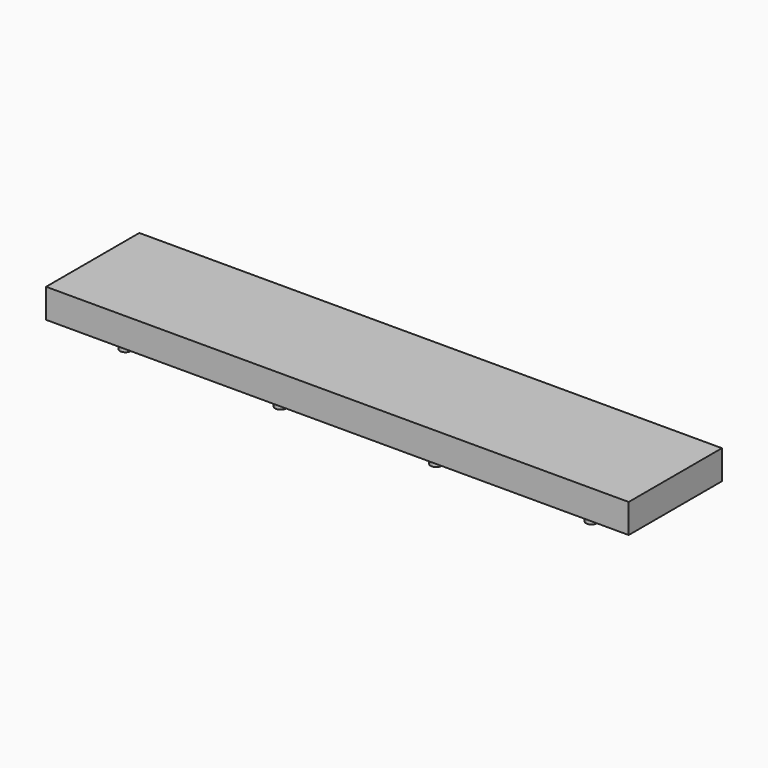
from build123d import *

# Parameters (mm, degrees)
SKETCH058_W             = 3.4
SKETCH058_H             = 3.2
PAD052_DEPTH            = 1.4
CHAMFER024_SIZE         = 1
SKETCH059_W             = 3.4
SKETCH059_H             = 3.2
PAD053_DEPTH            = 1.4
CHAMFER022_SIZE         = 1
SKETCH060_W             = 3.4
SKETCH060_H             = 3.2
PAD054_DEPTH            = 1.4
CHAMFER031_SIZE         = 1
SKETCH061_W             = 3.4
SKETCH061_H             = 3.2
PAD055_DEPTH            = 1.4
CHAMFER032_SIZE         = 1
SKETCH063_W             = 3.4
SKETCH063_H             = 3.2
PAD056_DEPTH            = 1.4
CHAMFER025_SIZE         = 1
SKETCH064_W             = 3.4
SKETCH064_H             = 3.2
PAD057_DEPTH            = 1.4
CHAMFER030_SIZE         = 1
SKETCH065_W             = 3.4
SKETCH065_H             = 3.2
PAD058_DEPTH            = 1.4
CHAMFER026_SIZE         = 1
SKETCH062_W             = 3.4
SKETCH062_H             = 3.2
PAD059_DEPTH            = 1.4
CHAMFER028_SIZE         = 1
SKETCH082_W             = 3.2
SKETCH082_H             = 3.15
PAD075_DEPTH            = 1.2
CHAMFER027_SIZE         = 1
SKETCH083_W             = 2.017963
SKETCH083_H             = 1.017
SKETCH083_W_2           = 1.827715
SKETCH083_H_2           = 1.155216
POCKET007_DEPTH         = 5
SKETCH084_W             = 3.2
SKETCH084_H             = 3.2
PAD076_DEPTH            = 1.2
CHAMFER029_SIZE         = 0.5
SKETCH085_W             = 1.850896
SKETCH085_H             = 1.017
SKETCH085_W_2           = 1.709498
SKETCH085_H_2           = 1.155216
POCKET008_DEPTH         = 5
BODY075_PLACEMENT_ANGLE = 180
SKETCH086_W             = 2.4
SKETCH086_H             = 1.55
PAD077_DEPTH            = 1.35
BODY076_PLACEMENT_ANGLE = 90
SKETCH087_W             = 2.4
SKETCH087_H             = 1.55
PAD078_DEPTH            = 1.35
BODY077_PLACEMENT_ANGLE = 90
SKETCH088_W             = 3.2
SKETCH088_H             = 3.2
PAD079_DEPTH            = 1.4
CHAMFER033_SIZE         = 1
SKETCH089_W             = 2.017963
SKETCH089_H             = 1.017
POCKET009_DEPTH         = 5
BODY078_PLACEMENT_ANGLE = 180
SKETCH090_W             = 2.4
SKETCH090_H             = 1.55
PAD080_DEPTH            = 1.35
BODY079_PLACEMENT_ANGLE = 90
SKETCH091_W             = 2.15
SKETCH091_H             = 1.45
PAD081_DEPTH            = 1
BODY080_PLACEMENT_ANGLE = 90
SKETCH092_W             = 2.15
SKETCH092_H             = 1.45
PAD082_DEPTH            = 1
BODY081_PLACEMENT_ANGLE = 90
SKETCH093_W             = 2.1
SKETCH093_H             = 1.45
PAD083_DEPTH            = 0.6
BODY082_PLACEMENT_ANGLE = 90
SKETCH094_W             = 2.1
SKETCH094_H             = 1.45
PAD084_DEPTH            = 0.6
BODY083_PLACEMENT_ANGLE = 90
SKETCH095_W             = 2.1
SKETCH095_H             = 1.45
PAD085_DEPTH            = 0.6
BODY084_PLACEMENT_ANGLE = 90
SKETCH096_W             = 2.1
SKETCH096_H             = 1.45
PAD086_DEPTH            = 0.6
BODY085_PLACEMENT_ANGLE = 90
SKETCH097_W             = 2.1
SKETCH097_H             = 1.45
PAD087_DEPTH            = 0.6
BODY086_PLACEMENT_ANGLE = 90
SKETCH098_W             = 2.1
SKETCH098_H             = 1.45
PAD088_DEPTH            = 0.6
BODY087_PLACEMENT_ANGLE = 90
SKETCH099_W             = 2.1
SKETCH099_H             = 1.45
PAD089_DEPTH            = 0.6
BODY088_PLACEMENT_ANGLE = 90
SKETCH100_W             = 2.1
SKETCH100_H             = 1.45
PAD090_DEPTH            = 0.6
BODY089_PLACEMENT_ANGLE = 90
SKETCH101_W             = 2.1
SKETCH101_H             = 1.45
PAD091_DEPTH            = 0.6
BODY090_PLACEMENT_ANGLE = 90
SKETCH056_W             = 100
SKETCH056_H             = 20
PAD050_DEPTH            = 5
PAD092_DEPTH            = 3


with BuildPart() as obj1:
    # Sketch058 → Pad052 (new body)
    with BuildSketch(Plane.XY):
        Rectangle(SKETCH058_W, SKETCH058_H)
    extrude(amount=PAD052_DEPTH)

    # Chamfer024
    chamfer024_edges = [obj1.edges().sort_by_distance(p)[0] for p in [
        (-1.7, 0, 1.4),
        (1.7, 0, 1.4),
    ]]
    chamfer(chamfer024_edges, length=CHAMFER024_SIZE)


with BuildPart() as obj1_1:
    # Body051 placement: moved
    add(obj1.part.moved(Location((-25.4, 0, 0))))


with BuildPart() as obj2:
    # Sketch059 → Pad053 (new body)
    with BuildSketch(Plane.XY):
        Rectangle(SKETCH059_W, SKETCH059_H)
    extrude(amount=PAD053_DEPTH)

    # Chamfer022
    chamfer022_edges = [obj2.edges().sort_by_distance(p)[0] for p in [
        (-1.7, 0, 1.4),
        (1.7, 0, 1.4),
    ]]
    chamfer(chamfer022_edges, length=CHAMFER022_SIZE)


with BuildPart() as obj2_1:
    # Body052 placement: moved
    add(obj2.part.moved(Location((-21.59, 0, 0))))


with BuildPart() as obj3:
    # Sketch060 → Pad054 (new body)
    with BuildSketch(Plane.XY):
        Rectangle(SKETCH060_W, SKETCH060_H)
    extrude(amount=PAD054_DEPTH)

    # Chamfer031
    chamfer031_edges = [obj3.edges().sort_by_distance(p)[0] for p in [
        (-1.7, 0, 1.4),
        (1.7, 0, 1.4),
    ]]
    chamfer(chamfer031_edges, length=CHAMFER031_SIZE)


with BuildPart() as obj3_1:
    # Body053 placement: moved
    add(obj3.part.moved(Location((-33.02, 0, 0))))


with BuildPart() as obj4:
    # Sketch061 → Pad055 (new body)
    with BuildSketch(Plane.XY):
        Rectangle(SKETCH061_W, SKETCH061_H)
    extrude(amount=PAD055_DEPTH)

    # Chamfer032
    chamfer032_edges = [obj4.edges().sort_by_distance(p)[0] for p in [
        (-1.7, 0, 1.4),
        (1.7, 0, 1.4),
    ]]
    chamfer(chamfer032_edges, length=CHAMFER032_SIZE)


with BuildPart() as obj4_1:
    # Body054 placement: moved
    add(obj4.part.moved(Location((-36.83, 0, 0))))


with BuildPart() as obj5:
    # Sketch063 → Pad056 (new body)
    with BuildSketch(Plane.XY):
        Rectangle(SKETCH063_W, SKETCH063_H)
    extrude(amount=PAD056_DEPTH)

    # Chamfer025
    chamfer025_edges = [obj5.edges().sort_by_distance(p)[0] for p in [
        (-1.7, 0, 1.4),
        (1.7, 0, 1.4),
    ]]
    chamfer(chamfer025_edges, length=CHAMFER025_SIZE)


with BuildPart() as obj5_1:
    # Body055 placement: moved
    add(obj5.part.moved(Location((25.4, 0, 0))))


with BuildPart() as obj6:
    # Sketch064 → Pad057 (new body)
    with BuildSketch(Plane.XY):
        Rectangle(SKETCH064_W, SKETCH064_H)
    extrude(amount=PAD057_DEPTH)

    # Chamfer030
    chamfer030_edges = [obj6.edges().sort_by_distance(p)[0] for p in [
        (-1.7, 0, 1.4),
        (1.7, 0, 1.4),
    ]]
    chamfer(chamfer030_edges, length=CHAMFER030_SIZE)


with BuildPart() as obj6_1:
    # Body056 placement: moved
    add(obj6.part.moved(Location((21.59, 0, 0))))


with BuildPart() as obj7:
    # Sketch065 → Pad058 (new body)
    with BuildSketch(Plane.XY):
        Rectangle(SKETCH065_W, SKETCH065_H)
    extrude(amount=PAD058_DEPTH)

    # Chamfer026
    chamfer026_edges = [obj7.edges().sort_by_distance(p)[0] for p in [
        (-1.7, 0, 1.4),
        (1.7, 0, 1.4),
    ]]
    chamfer(chamfer026_edges, length=CHAMFER026_SIZE)


with BuildPart() as obj7_1:
    # Body057 placement: moved
    add(obj7.part.moved(Location((33.02, 0, 0))))


with BuildPart() as obj8:
    # Sketch062 → Pad059 (new body)
    with BuildSketch(Plane.XY):
        Rectangle(SKETCH062_W, SKETCH062_H)
    extrude(amount=PAD059_DEPTH)

    # Chamfer028
    chamfer028_edges = [obj8.edges().sort_by_distance(p)[0] for p in [
        (-1.7, 0, 1.4),
        (1.7, 0, 1.4),
    ]]
    chamfer(chamfer028_edges, length=CHAMFER028_SIZE)


with BuildPart() as obj8_1:
    # Body058 placement: moved
    add(obj8.part.moved(Location((36.83, 0, 0))))


with BuildPart() as obj9:
    # Sketch082 → Pad075 (new body)
    with BuildSketch(Plane.XY):
        Rectangle(SKETCH082_W, SKETCH082_H)
    extrude(amount=PAD075_DEPTH)

    # Chamfer027
    chamfer027_edges = [obj9.edges().sort_by_distance(p)[0] for p in [
        (-1.6, 0, 1.2),
        (1.6, 0, 1.2),
    ]]
    chamfer(chamfer027_edges, length=CHAMFER027_SIZE)

    # Sketch083 (on Face5 of Chamfer027) → Pocket007 (cut)
    with BuildSketch(Plane.XY.offset(1.2)):
        with Locations((-1.75199, 0)):
            Rectangle(SKETCH083_W, SKETCH083_H)
        with Locations((1.620688, 1.144909)):
            Rectangle(SKETCH083_W_2, SKETCH083_H_2)
        with Locations((1.620688, -1.144909)):
            Rectangle(SKETCH083_W_2, SKETCH083_H_2)
    extrude(amount=-POCKET007_DEPTH, mode=Mode.SUBTRACT)


with BuildPart() as obj9_1:
    # Body074 placement: moved
    add(obj9.part.moved(Location((-10.3251, 0, 0))))


with BuildPart() as hall_sot23_big:
    # Sketch084 → Pad076 (new body)
    with BuildSketch(Plane.XY):
        Rectangle(SKETCH084_W, SKETCH084_H)
    extrude(amount=PAD076_DEPTH)

    # Chamfer029
    chamfer029_edges = [hall_sot23_big.edges().sort_by_distance(p)[0] for p in [
        (-1.6, 0, 1.2),
        (1.6, 0, 1.2),
    ]]
    chamfer(chamfer029_edges, length=CHAMFER029_SIZE)

    # Sketch085 (on Face5 of Chamfer029) → Pocket008 (cut)
    with BuildSketch(Plane.XY.offset(1.2)):
        with Locations((-1.851985, 0)):
            Rectangle(SKETCH085_W, SKETCH085_H)
        with Locations((1.75658, 1.133439)):
            Rectangle(SKETCH085_W_2, SKETCH085_H_2)
        with Locations((1.75658, -1.133439)):
            Rectangle(SKETCH085_W_2, SKETCH085_H_2)
    extrude(amount=-POCKET008_DEPTH, mode=Mode.SUBTRACT)


with BuildPart() as hall_sot23_big_1:
    # Body075 placement: moved
    add(hall_sot23_big.part.moved(Location((-16.51, 0, 0))).rotate(Axis((-16.51, 0, 0), (0, 0, 1)), BODY075_PLACEMENT_ANGLE))


with BuildPart() as capacitor_1u009:
    # Sketch086 → Pad077 (new body)
    with BuildSketch(Plane.XY):
        Rectangle(SKETCH086_W, SKETCH086_H)
    extrude(amount=PAD077_DEPTH)


with BuildPart() as capacitor_1u009_1:
    # Body076 placement: moved
    add(capacitor_1u009.part.moved(Location((-41.91, 0, 0))).rotate(Axis((-41.91, 0, 0), (0, 0, 1)), BODY076_PLACEMENT_ANGLE))


with BuildPart() as capacitor_1u010:
    # Sketch087 → Pad078 (new body)
    with BuildSketch(Plane.XY):
        Rectangle(SKETCH087_W, SKETCH087_H)
    extrude(amount=PAD078_DEPTH)


with BuildPart() as capacitor_1u010_1:
    # Body077 placement: moved
    add(capacitor_1u010.part.moved(Location((41.91, 0, 0))).rotate(Axis((41.91, 0, 0), (0, 0, 1)), BODY077_PLACEMENT_ANGLE))


with BuildPart() as body078:
    # Sketch088 → Pad079 (new body)
    with BuildSketch(Plane.XY):
        Rectangle(SKETCH088_W, SKETCH088_H)
    extrude(amount=PAD079_DEPTH)

    # Chamfer033
    chamfer033_edges = [body078.edges().sort_by_distance(p)[0] for p in [
        (-1.6, 0, 1.4),
        (1.6, 0, 1.4),
    ]]
    chamfer(chamfer033_edges, length=CHAMFER033_SIZE)

    # Sketch089 (on Face5 of Chamfer033) → Pocket009 (cut)
    with BuildSketch(Plane.XY.offset(1.4)):
        with Locations((-1.75199, 0)):
            Rectangle(SKETCH089_W, SKETCH089_H)
    extrude(amount=-POCKET009_DEPTH, mode=Mode.SUBTRACT)


with BuildPart() as body078_1:
    # Body078 placement: moved
    add(body078.part.moved(Location((6.99, 0, 0))).rotate(Axis((6.99, 0, 0), (0, 0, 1)), BODY078_PLACEMENT_ANGLE))


with BuildPart() as capacitor_1u011:
    # Sketch090 → Pad080 (new body)
    with BuildSketch(Plane.XY):
        Rectangle(SKETCH090_W, SKETCH090_H)
    extrude(amount=PAD080_DEPTH)


with BuildPart() as capacitor_1u011_1:
    # Body079 placement: moved
    add(capacitor_1u011.part.moved(Location((-1.91, 0, 0))).rotate(Axis((-1.91, 0, 0), (0, 0, 1)), BODY079_PLACEMENT_ANGLE))


with BuildPart() as capacitor_100n006:
    # Sketch091 → Pad081 (new body)
    with BuildSketch(Plane.XY):
        Rectangle(SKETCH091_W, SKETCH091_H)
    extrude(amount=PAD081_DEPTH)


with BuildPart() as capacitor_100n006_1:
    # Body080 placement: moved
    add(capacitor_100n006.part.moved(Location((-7.62, 0, 0))).rotate(Axis((-7.62, 0, 0), (0, 0, 1)), BODY080_PLACEMENT_ANGLE))


with BuildPart() as capacitor_100n007:
    # Sketch092 → Pad082 (new body)
    with BuildSketch(Plane.XY):
        Rectangle(SKETCH092_W, SKETCH092_H)
    extrude(amount=PAD082_DEPTH)


with BuildPart() as capacitor_100n007_1:
    # Body081 placement: moved
    add(capacitor_100n007.part.moved(Location((3.81, 0, 0))).rotate(Axis((3.81, 0, 0), (0, 0, 1)), BODY081_PLACEMENT_ANGLE))


with BuildPart() as body082:
    # Sketch093 → Pad083 (new body)
    with BuildSketch(Plane.XY):
        Rectangle(SKETCH093_W, SKETCH093_H)
    extrude(amount=PAD083_DEPTH)


with BuildPart() as body082_1:
    # Body082 placement: moved
    add(body082.part.moved(Location((-28.26, 0, 0))).rotate(Axis((-28.26, 0, 0), (0, 0, 1)), BODY082_PLACEMENT_ANGLE))


with BuildPart() as body083:
    # Sketch094 → Pad084 (new body)
    with BuildSketch(Plane.XY):
        Rectangle(SKETCH094_W, SKETCH094_H)
    extrude(amount=PAD084_DEPTH)


with BuildPart() as body083_1:
    # Body083 placement: moved
    add(body083.part.moved(Location((-30.16, 0, 0))).rotate(Axis((-30.16, 0, 0), (0, 0, 1)), BODY083_PLACEMENT_ANGLE))


with BuildPart() as body084:
    # Sketch095 → Pad085 (new body)
    with BuildSketch(Plane.XY):
        Rectangle(SKETCH095_W, SKETCH095_H)
    extrude(amount=PAD085_DEPTH)


with BuildPart() as body084_1:
    # Body084 placement: moved
    add(body084.part.moved(Location((30.16, 0, 0))).rotate(Axis((30.16, 0, 0), (0, 0, 1)), BODY084_PLACEMENT_ANGLE))


with BuildPart() as r1k:
    # Sketch096 → Pad086 (new body)
    with BuildSketch(Plane.XY):
        Rectangle(SKETCH096_W, SKETCH096_H)
    extrude(amount=PAD086_DEPTH)


with BuildPart() as r1k_1:
    # Body085 placement: moved
    add(r1k.part.moved(Location((28.26, 0, 0))).rotate(Axis((28.26, 0, 0), (0, 0, 1)), BODY085_PLACEMENT_ANGLE))


with BuildPart() as r10k:
    # Sketch097 → Pad087 (new body)
    with BuildSketch(Plane.XY):
        Rectangle(SKETCH097_W, SKETCH097_H)
    extrude(amount=PAD087_DEPTH)


with BuildPart() as r10k_1:
    # Body086 placement: moved
    add(r10k.part.rotate(Axis((0, 0, 0), (0, 0, 1)), BODY086_PLACEMENT_ANGLE))


with BuildPart() as body087:
    # Sketch098 → Pad088 (new body)
    with BuildSketch(Plane.XY):
        Rectangle(SKETCH098_W, SKETCH098_H)
    extrude(amount=PAD088_DEPTH)


with BuildPart() as body087_1:
    # Body087 placement: moved
    add(body087.part.moved(Location((1.91, 0, 0))).rotate(Axis((1.91, 0, 0), (0, 0, 1)), BODY087_PLACEMENT_ANGLE))


with BuildPart() as body088:
    # Sketch099 → Pad089 (new body)
    with BuildSketch(Plane.XY):
        Rectangle(SKETCH099_W, SKETCH099_H)
    extrude(amount=PAD089_DEPTH)


with BuildPart() as body088_1:
    # Body088 placement: moved
    add(body088.part.moved(Location((-3.81, 0, 0))).rotate(Axis((-3.81, 0, 0), (0, 0, 1)), BODY088_PLACEMENT_ANGLE))


with BuildPart() as r470r:
    # Sketch100 → Pad090 (new body)
    with BuildSketch(Plane.XY):
        Rectangle(SKETCH100_W, SKETCH100_H)
    extrude(amount=PAD090_DEPTH)


with BuildPart() as r470r_1:
    # Body089 placement: moved
    add(r470r.part.moved(Location((-5.71, 0, 0))).rotate(Axis((-5.71, 0, 0), (0, 0, 1)), BODY089_PLACEMENT_ANGLE))


with BuildPart() as body090:
    # Sketch101 → Pad091 (new body)
    with BuildSketch(Plane.XY):
        Rectangle(SKETCH101_W, SKETCH101_H)
    extrude(amount=PAD091_DEPTH)


with BuildPart() as body090_1:
    # Body090 placement: moved
    add(body090.part.moved(Location((10.16, 0, 0))).rotate(Axis((10.16, 0, 0), (0, 0, 1)), BODY090_PLACEMENT_ANGLE))


with BuildPart() as body025:
    # Sketch056 → Pad050 (new body)
    with BuildSketch(Plane.XY):
        with Locations((0, 5.484764)):
            Rectangle(SKETCH056_W, SKETCH056_H)
    extrude(amount=PAD050_DEPTH)

    # Sketch102 (on Face5 of Pad050) → Pad092 (join)
    with BuildSketch(Plane(origin=(0, 0, 0), x_dir=(1, 0, 0), z_dir=(0, 0, -1))):
        with BuildLine():
            ThreePointArc((-39.055, 0), (-40.005, 0.95), (-40.955, 0))
            Line((-40.955, 0), (-40.955, -3.4))
            ThreePointArc((-40.955, -3.4), (-40.005, -4.35), (-39.055, -3.4))
            Line((-39.055, 0), (-39.055, -3.4))
        make_face()
        with BuildLine():
            ThreePointArc((-12.385, 0), (-13.335, 0.95), (-14.285, 0))
            Line((-14.285, 0), (-14.285, -3.4))
            ThreePointArc((-14.285, -3.4), (-13.335, -4.35), (-12.385, -3.4))
            Line((-12.385, 0), (-12.385, -3.4))
        make_face()
        with BuildLine():
            ThreePointArc((14.285, 0), (13.335, 0.95), (12.385, 0))
            Line((12.385, 0), (12.385, -3.4))
            ThreePointArc((12.385, -3.4), (13.335, -4.35), (14.285, -3.4))
            Line((14.285, 0), (14.285, -3.4))
        make_face()
        with BuildLine():
            ThreePointArc((40.955, 0), (40.005, 0.95), (39.055, 0))
            Line((39.055, 0), (39.055, -3.4))
            ThreePointArc((39.055, -3.4), (40.005, -4.35), (40.955, -3.4))
            Line((40.955, 0), (40.955, -3.4))
        make_face()
    extrude(amount=PAD092_DEPTH)

    # Boolean: cut obj1, obj2, obj3, obj4, obj5, obj6, obj7, obj8, obj9, HALL Sot23-big, Capacitor 1u009, Capacitor 1u010, Body078, Capacitor 1u011, Capacitor 100n006, Capacitor 100n007, Body082, Body083, Body084, R1k , R10k , Body087, Body088, R470R , Body090
    add(obj1_1.part, mode=Mode.SUBTRACT)
    add(obj2_1.part, mode=Mode.SUBTRACT)
    add(obj3_1.part, mode=Mode.SUBTRACT)
    add(obj4_1.part, mode=Mode.SUBTRACT)
    add(obj5_1.part, mode=Mode.SUBTRACT)
    add(obj6_1.part, mode=Mode.SUBTRACT)
    add(obj7_1.part, mode=Mode.SUBTRACT)
    add(obj8_1.part, mode=Mode.SUBTRACT)
    add(obj9_1.part, mode=Mode.SUBTRACT)
    add(hall_sot23_big_1.part, mode=Mode.SUBTRACT)
    add(capacitor_1u009_1.part, mode=Mode.SUBTRACT)
    add(capacitor_1u010_1.part, mode=Mode.SUBTRACT)
    add(body078_1.part, mode=Mode.SUBTRACT)
    add(capacitor_1u011_1.part, mode=Mode.SUBTRACT)
    add(capacitor_100n006_1.part, mode=Mode.SUBTRACT)
    add(capacitor_100n007_1.part, mode=Mode.SUBTRACT)
    add(body082_1.part, mode=Mode.SUBTRACT)
    add(body083_1.part, mode=Mode.SUBTRACT)
    add(body084_1.part, mode=Mode.SUBTRACT)
    add(r1k_1.part, mode=Mode.SUBTRACT)
    add(r10k_1.part, mode=Mode.SUBTRACT)
    add(body087_1.part, mode=Mode.SUBTRACT)
    add(body088_1.part, mode=Mode.SUBTRACT)
    add(r470r_1.part, mode=Mode.SUBTRACT)
    add(body090_1.part, mode=Mode.SUBTRACT)


solid = body025.part
